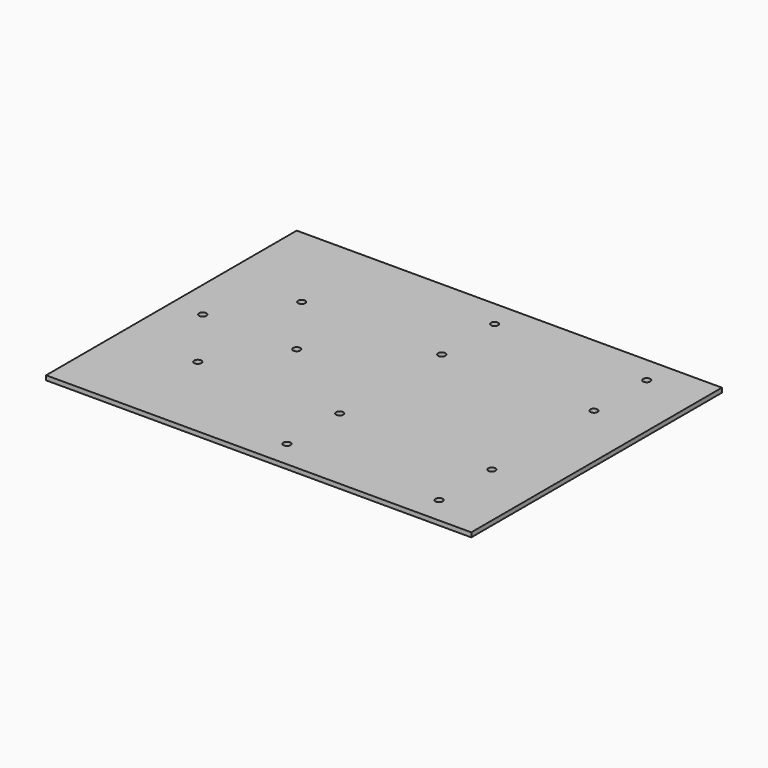
from build123d import *

# Parameters (mm, degrees)
F0_W     = 190
F0_H     = 140
F1_DEPTH = 2
F2_R     = 1.6
F3_DEPTH = 25


with BuildPart() as f1:
    # F0 (on Top) → F1 (new body)
    with BuildSketch(Plane.XY):
        Rectangle(F0_W, F0_H)
    extrude(amount=F1_DEPTH)

    # F2 (on face) → F3 (cut)
    with BuildSketch(Plane.XY.offset(2)):
        with Locations((71, 58)):
            Circle(F2_R)
        with Locations((71, 28.5)):
            Circle(F2_R)
        with Locations((3, 58)):
            Circle(F2_R)
        with Locations((3, 28.5)):
            Circle(F2_R)
        with Locations((71, -28.5)):
            Circle(F2_R)
        with Locations((3, -28.5)):
            Circle(F2_R)
        with Locations((3, -58)):
            Circle(F2_R)
        with Locations((71, -58)):
            Circle(F2_R)
        with Locations((-81, 0)):
            Circle(F2_R)
        with Locations((-39, 0)):
            Circle(F2_R)
        with Locations((-60, 29)):
            Circle(F2_R)
        with Locations((-60, -29)):
            Circle(F2_R)
    extrude(amount=-F3_DEPTH, mode=Mode.SUBTRACT)


solid = f1.part
